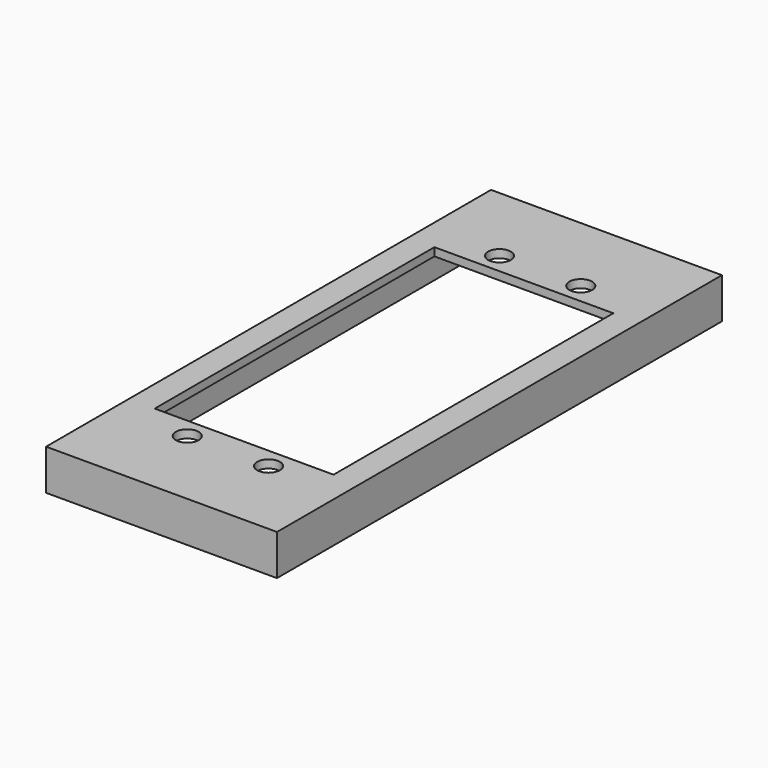
from build123d import *

# Parameters (mm, degrees)
CYLINDER005_R     = 1.4
CYLINDER005_DEPTH = 10
SKETCH001_W       = 28.4
SKETCH001_H       = 68.4
SKETCH001_W_2     = 25.4
SKETCH001_H_2     = 65.4
EXTRUDE001_DEPTH  = 4
SKETCH_W          = 28.4
SKETCH_H          = 68.4
SKETCH_R          = 1.4
SKETCH_W_2        = 22
SKETCH_H_2        = 43
EXTRUDE_DEPTH     = 1


with BuildPart() as cylinder005:
    # Cylinder005 → Cylinder005 (new body)
    with BuildSketch(Plane(origin=(-5, 2.5, -5), x_dir=(1, 0, 0), z_dir=(0, 0, 1))):
        Circle(CYLINDER005_R)
    extrude(amount=CYLINDER005_DEPTH)


with BuildPart() as extrude001:
    # Sketch001 → Extrude001 (new body)
    with BuildSketch(Plane.XY.offset(1)):
        with Locations((0, -21.5)):
            Rectangle(SKETCH001_W, SKETCH001_H)
        with Locations((0, -21.5)):
            Rectangle(SKETCH001_W_2, SKETCH001_H_2, mode=Mode.SUBTRACT)
    extrude(amount=-EXTRUDE001_DEPTH)


with BuildPart() as body002:
    # Sketch → Extrude (new body)
    with BuildSketch(Plane.XY.offset(1)):
        with Locations((0, -21.5)):
            Rectangle(SKETCH_W, SKETCH_H)
        with Locations((-5, 2.5)):
            Circle(SKETCH_R, mode=Mode.SUBTRACT)
        with Locations((5, 2.5)):
            Circle(SKETCH_R, mode=Mode.SUBTRACT)
        with Locations((-5, -45.5)):
            Circle(SKETCH_R, mode=Mode.SUBTRACT)
        with Locations((5, -45.5)):
            Circle(SKETCH_R, mode=Mode.SUBTRACT)
        with Locations((0, -21.5)):
            Rectangle(SKETCH_W_2, SKETCH_H_2, mode=Mode.SUBTRACT)
    extrude(amount=EXTRUDE_DEPTH)

    # Fusion012: union Extrude001
    add(extrude001.part)

    # Cut001: cut Cylinder005
    add(cylinder005.part, mode=Mode.SUBTRACT)


with BuildPart() as part_mirroring003:
    # Part__Mirroring003: instance of Body002
    add(body002.part.mirror(Plane(origin=(0, 0, 0), x_dir=(0, -1, 0), z_dir=(1, 0, 0))))


solid = part_mirroring003.part
